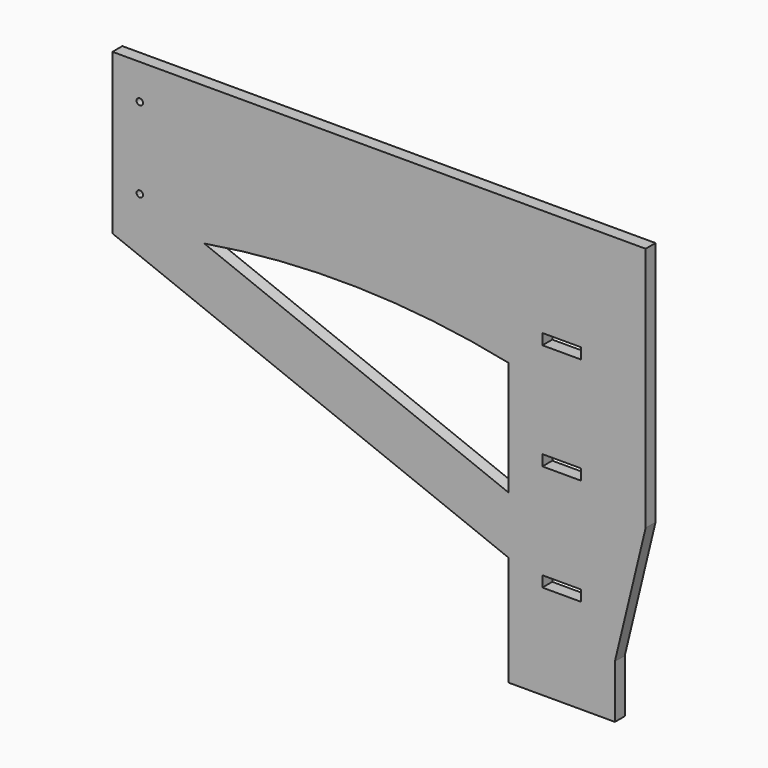
from build123d import *

# Parameters (mm, degrees)
F0_W      = 250
F0_H      = 10.25
F0_H_2    = 35
F0_R      = 1.5
F0_W_2    = 18
F0_H_3    = 5.08
F1_DEPTH  = 5.8
F1_FACE_W = 50
F1_FACE_H = 5.8
F2_DEPTH  = 25


with BuildPart() as f1:
    # F0 (on Front) → F1 (new body)
    with BuildSketch(Plane.XZ):
        with Locations((2.281713, 50.611829)):
            Rectangle(F0_W, F0_H)
        with Locations((2.281713, 27.986829)):
            Rectangle(F0_W, F0_H_2)
        with Locations((-109.911287, 39.236829)):
            Circle(F0_R, mode=Mode.SUBTRACT)
        with BuildLine():
            Line((127.281713, 0.236829), (127.281713, 10.486829))
            Line((127.281713, 10.486829), (-122.718287, 10.486829))
            Line((-122.718287, 10.486829), (-122.718287, 0.236829))
            Line((-122.718287, 0.236829), (-111.029321, 0.236829))
            ThreePointArc((-111.029321, 0.236829), (-110.44652, 2.638087), (-108.411287, 1.236829))
            ThreePointArc((-108.411287, 1.236829), (-108.510028, 0.701596), (-108.793253, 0.236829))
            Line((-108.793253, 0.236829), (78.874297, 0.236829))
            Line((78.874297, 0.236829), (78.874297, 5.228526))
            Line((78.874297, 5.228526), (96.874297, 5.228526))
            Line((96.874297, 5.228526), (96.874297, 0.236829))
            Line((96.874297, 0.236829), (127.281713, 0.236829))
        make_face()
        with BuildLine():
            Line((127.281713, -59.514336), (127.281713, 0.236829))
            Line((127.281713, 0.236829), (96.874297, 0.236829))
            Line((96.874297, 0.236829), (96.874297, 0.148526))
            Line((96.874297, 0.148526), (78.874297, 0.148526))
            Line((78.874297, 0.148526), (78.874297, 0.236829))
            Line((78.874297, 0.236829), (-108.793253, 0.236829))
            ThreePointArc((-108.793253, 0.236829), (-109.911287, -0.263171), (-111.029321, 0.236829))
            Line((-111.029321, 0.236829), (-122.718287, 0.236829))
            Line((-122.718287, 0.236829), (-122.718287, -19.263171))
            ThreePointArc((-122.718287, -19.263171), (-101.334346, -13.710596), (-79.665576, -9.401492))
            ThreePointArc((-79.665576, -9.401492), (-8.261862, -4.127499), (62.874297, -12.248605))
            Line((62.874297, -12.248605), (62.874297, -65.755888))
            Line((62.874297, -65.755888), (62.874297, -92.638836))
            Line((62.874297, -92.638836), (62.874297, -119.263171))
            Line((62.874297, -119.263171), (112.874297, -119.263171))
            Line((112.874297, -119.263171), (127.281713, -59.514336))
        make_face()
        with Locations((87.874297, -97.311474)):
            Rectangle(F0_W_2, F0_H_3, mode=Mode.SUBTRACT)
        with Locations((87.874297, -47.311474)):
            Rectangle(F0_W_2, F0_H_3, mode=Mode.SUBTRACT)
        with BuildLine():
            ThreePointArc((-79.665576, -9.401492), (-101.334346, -13.710596), (-122.718287, -19.263171))
            Line((-122.718287, -19.263171), (62.874297, -92.638836))
            Line((62.874297, -92.638836), (62.874297, -65.755888))
            Line((62.874297, -65.755888), (-79.665576, -9.401492))
        make_face()
    extrude(amount=F1_DEPTH)

    # F1_face (on face) → F2 (join)
    with BuildSketch(Plane(origin=(87.874297, -2.9, -119.263171), x_dir=(1, 0, 0), z_dir=(0, 0, -1))):
        Rectangle(F1_FACE_W, F1_FACE_H)
    extrude(amount=F2_DEPTH)


solid = f1.part
